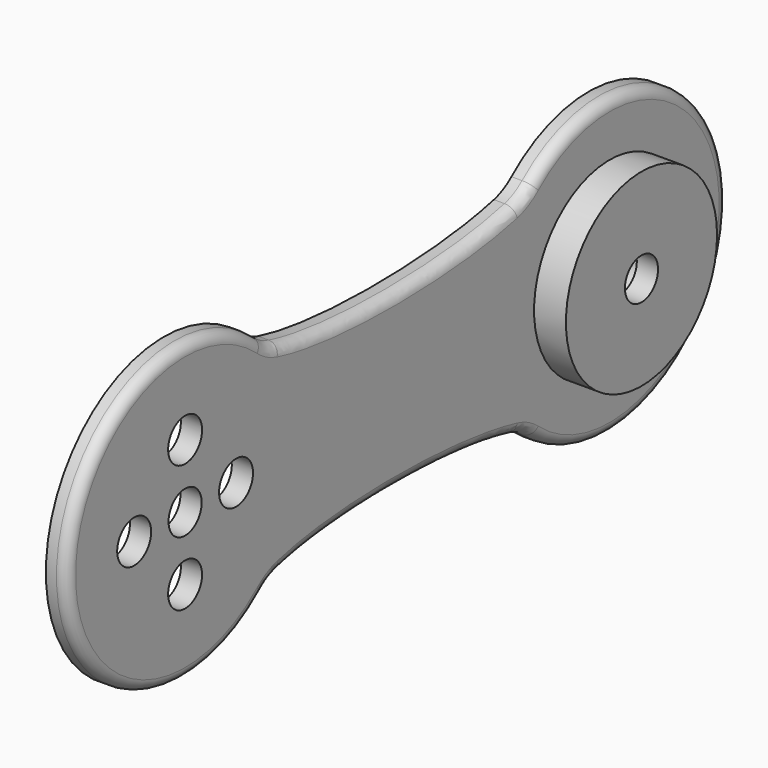
from build123d import *

# Parameters (mm, degrees)
F0_R     = 8.9
F0_R_2   = 2.375
F0_R_3   = 1.95
F1_DEPTH = 5
F2_DEPTH = 2
F3_DEPTH = 2
F4_R     = 5
F5_R     = 1
F6_R     = 2
F7_DEPTH = 12.5
F8_DEPTH = 3


with BuildPart() as f1:
    # F0 (on Right) → F1 (new body)
    with BuildSketch(Plane.YZ):
        with Locations((50, 0)):
            Circle(F0_R)
        with Locations((50, 0)):
            Circle(F0_R_2, mode=Mode.SUBTRACT)
        with Locations((50, 0)):
            Circle(F0_R_2)
        with Locations((50, 0)):
            Circle(F0_R_3, mode=Mode.SUBTRACT)
    extrude(amount=F1_DEPTH)

    # F0 (on Right) → F2 (join)
    with BuildSketch(Plane.YZ):
        with BuildLine():
            ThreePointArc((9.8287842585, -9.8287842585), (12.8419255019, -5.3192997099), (13.9, 0))
            ThreePointArc((13.9, 0), (12.8419255019, 5.3192997099), (9.8287842585, 9.8287842585))
            ThreePointArc((9.8287842585, 9.8287842585), (-13.9, 0), (9.8287842585, -9.8287842585))
        make_face()
        Circle(F0_R, mode=Mode.SUBTRACT)
        with BuildLine():
            ThreePointArc((9.8287842585, 9.8287842585), (12.8419255019, 5.3192997099), (13.9, 0))
            ThreePointArc((13.9, 0), (12.8419255019, -5.3192997099), (9.8287842585, -9.8287842585))
            add(Edge.make_bspline(
                [(9.8287842585, -9.8287842585), (16.2461867133, -7.50000003), (32.6766982829, -7.5000000581), (40.1712157415, -9.8287842585)],
                knots=[0, 0, 0, 0, 30.342431483, 30.342431483, 30.342431483, 30.342431483], degree=3))
            ThreePointArc((40.1712157415, -9.8287842585), (36.1, 0), (40.1712157415, 9.8287842585))
            add(Edge.make_bspline(
                [(9.8287842585, 9.8287842585), (16.2461867454, 7.49999997), (32.6766983239, 7.4999999419), (40.1712157415, 9.8287842585)],
                knots=[0, 0, 0, 0, 30.342431483, 30.342431483, 30.342431483, 30.342431483], degree=3))
        make_face()
        with BuildLine():
            ThreePointArc((63.9, 0), (55.3192997099, 12.8419255019), (40.1712157415, 9.8287842585))
            ThreePointArc((40.1712157415, 9.8287842585), (36.1, 0), (40.1712157415, -9.8287842585))
            ThreePointArc((40.1712157415, -9.8287842585), (55.3192997099, -12.8419255019), (63.9, 0))
        make_face()
        with Locations((50, 0)):
            Circle(F0_R, mode=Mode.SUBTRACT)
    extrude(amount=F2_DEPTH)

    # F0 (on Right) → F3 (join)
    with BuildSketch(Plane.YZ):
        Circle(F0_R)
        Circle(F0_R_2, mode=Mode.SUBTRACT)
        Circle(F0_R_2)
        Circle(F0_R_3, mode=Mode.SUBTRACT)
    extrude(amount=F3_DEPTH)

    # F4
    f4_edges = [f1.edges().sort_by_distance(p)[0] for p in [
        (1, 9.828784, 9.828784),
        (1, 40.171216, 9.828784),
        (1, 9.828784, -9.828784),
        (1, 40.171216, -9.828784),
    ]]
    fillet(f4_edges, radius=F4_R)

    # F5
    f5_edges = [f1.edges().sort_by_distance(p)[0] for p in [
        (2, 63.9, 0),
        (2, 24.980578, 8.083035),
        (2, -13.9, 0),
        (2, 24.980578, -8.083035),
    ]]
    fillet(f5_edges, radius=F5_R)

    # F6 (on Right) → F7 (cut, symmetric)
    with BuildSketch(Plane.YZ):
        with Locations((6, 0)):
            Circle(F6_R)
        with Locations((-6, 0)):
            Circle(F6_R)
        with Locations((0, 6)):
            Circle(F6_R)
        with Locations((0, -6)):
            Circle(F6_R)
    extrude(amount=F7_DEPTH, both=True, mode=Mode.SUBTRACT)

    # F0 (on Right) → F8 (cut)
    with BuildSketch(Plane.YZ):
        with Locations((50, 0)):
            Circle(F0_R_2)
        with Locations((50, 0)):
            Circle(F0_R_3, mode=Mode.SUBTRACT)
    extrude(amount=F8_DEPTH, mode=Mode.SUBTRACT)


solid = f1.part
